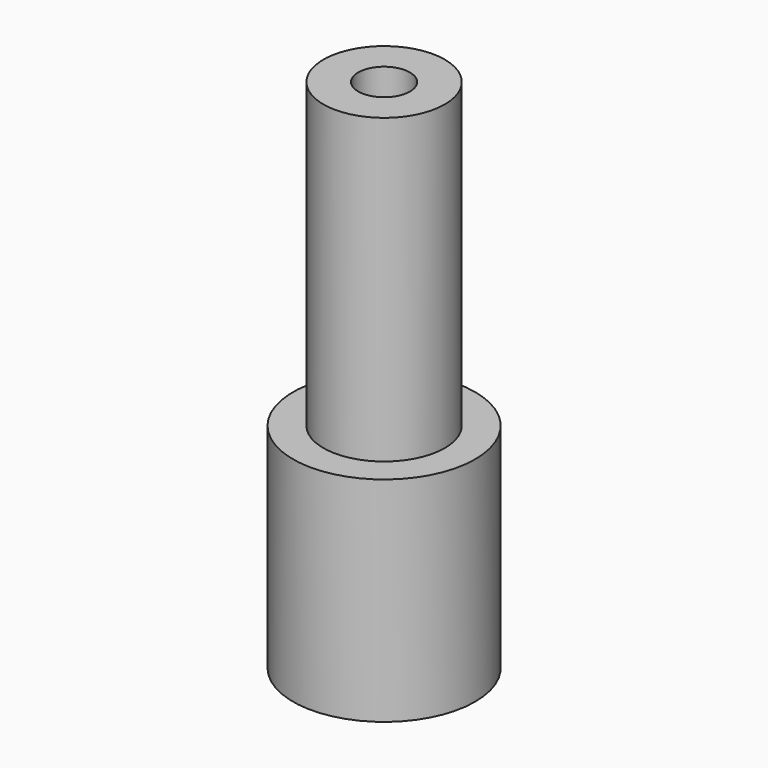
from build123d import *

# Parameters (mm, degrees)
F0_R     = 4.7625
F1_DEPTH = 11.1633
F2_R     = 3.175
F3_DEPTH = 15.8242
F4_R     = 1.35255
F5_DEPTH = 6.35
F6_R     = 1.35255
F7_DEPTH = 6.35


with BuildPart() as f1:
    # F0 (on Top) → F1 (new body)
    with BuildSketch(Plane.XY):
        Circle(F0_R)
    extrude(amount=F1_DEPTH)

    # F2 (on face) → F3 (join)
    with BuildSketch(Plane.XY.offset(11.1633)):
        Circle(F2_R)
    extrude(amount=F3_DEPTH)

    # F4 (on face) → F5 (cut)
    with BuildSketch(Plane(origin=(0, 0, 0), x_dir=(1, 0, 0), z_dir=(0, 0, -1))):
        Circle(F4_R)
    extrude(amount=-F5_DEPTH, mode=Mode.SUBTRACT)

    # F6 (on face) → F7 (cut)
    with BuildSketch(Plane.XY.offset(26.9875)):
        Circle(F6_R)
    extrude(amount=-F7_DEPTH, mode=Mode.SUBTRACT)


solid = f1.part
